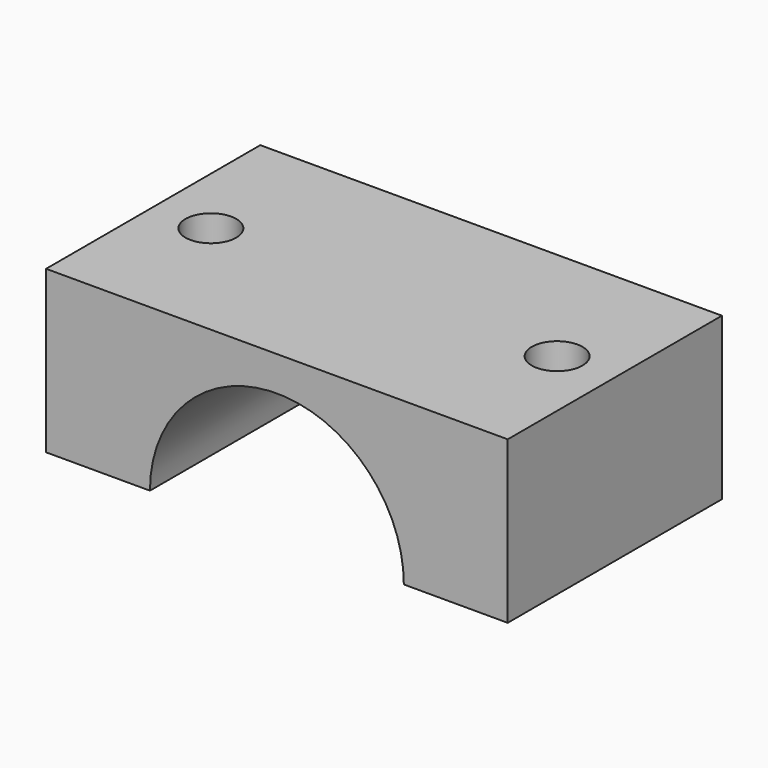
from build123d import *

# Parameters (mm, degrees)
F1_DEPTH = 29
F2_R     = 2.75
F3_DEPTH = 50


with BuildPart() as f1:
    # F0 (on Front) → F1 (new body)
    with BuildSketch(Plane.XZ):
        with BuildLine():
            ThreePointArc((-13.75, 0), (0, 13.75), (13.75, 0))
            Line((13.75, 0), (25, 0))
            Line((25, 0), (25, 17.5))
            Line((25, 17.5), (-25, 17.5))
            Line((-25, 17.5), (-25, 0))
            Line((-25, 0), (-13.75, 0))
        make_face()
    extrude(amount=F1_DEPTH)

    # F2 (on face) → F3 (cut)
    with BuildSketch(Plane.XY.offset(17.5)):
        with Locations((-18.75, -14.5)):
            Circle(F2_R)
        with Locations((18.75, -14.5)):
            Circle(F2_R)
    extrude(amount=-F3_DEPTH, mode=Mode.SUBTRACT)


solid = f1.part
